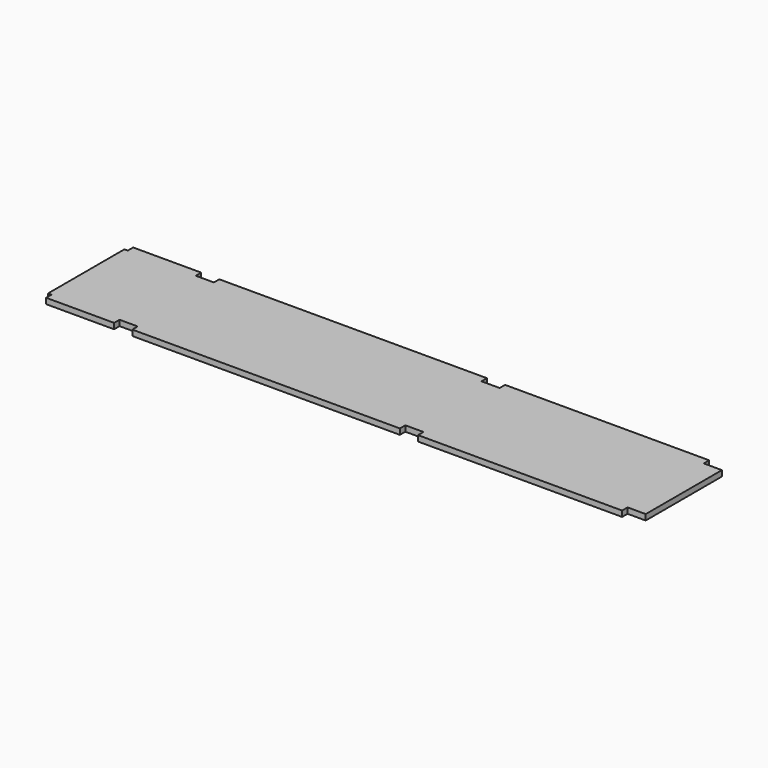
from build123d import *

# Parameters (mm, degrees)
F1_DEPTH = 15.875


with BuildPart() as f1:
    # F0 (on Top) → F1 (new body)
    with BuildSketch(Plane.XY):
        Polygon((-685.8, -235.315468), (-685.8, -254.365468), (63.5, -254.365468), (63.5, -235.315468), (114.3, -235.315468), (114.3, -254.365468), (685.8, -254.365468), (685.8, -235.315468), (736.6, -235.315468), (736.6, 31.384532), (685.8, 31.384532), (685.8, 50.279882), (114.3, 50.34432), (114.3, 31.384532), (63.5, 31.384532), (63.5, 50.350048), (-685.8, 50.434532), (-685.8, 31.384532), (-736.6, 31.384532), (-736.6, 50.434532), (-927.1, 50.434532), (-927.1, 31.384532), (-936.625, 31.384532), (-936.625, -235.315468), (-927.1, -235.315468), (-927.1, -254.365468), (-736.6, -254.365468), (-736.6, -235.315468), align=None)
    extrude(amount=F1_DEPTH)


solid = f1.part
